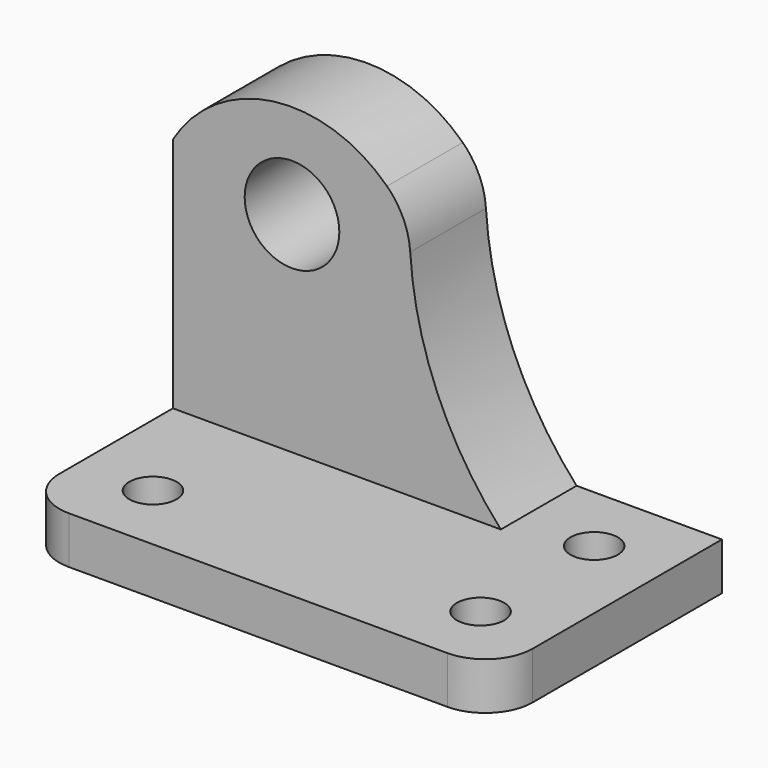
from build123d import *

# Parameters (mm, degrees)
F0_W      = 127
F0_H      = 76.2
F1_DEPTH  = 12.7
F2_R      = 12.7
F3_R      = 12.7
F4_W      = 63.5
F4_H      = 25.4
F5_DEPTH  = 63.5
F7_DEPTH  = 25.4
F8_DEPTH  = 25.4
F9_R      = 20.636463447
F11_DEPTH = 25.4010001
F12_DEPTH = 25.4010001
F13_R     = 0.2708197303
F14_R     = 6.35
F15_DEPTH = 12.7010001
F16_DEPTH = 12.7010001
F17_DEPTH = 12.7010001


with BuildPart() as f1:
    # F0 (on Top) → F1 (new body)
    with BuildSketch(Plane.XY):
        with Locations((1.7509019642, 4.0471330285)):
            Rectangle(F0_W, F0_H)
    extrude(amount=F1_DEPTH)

    # F2
    f2_edges = [f1.edges().sort_by_distance(p)[0] for p in [
        (-61.749098, -34.052867, 6.35),
    ]]
    fillet(f2_edges, radius=F2_R)

    # F3
    f3_edges = [f1.edges().sort_by_distance(p)[0] for p in [
        (65.250902, -34.052867, 6.35),
    ]]
    fillet(f3_edges, radius=F3_R)

    # F4 (on face) → F5 (join)
    with BuildSketch(Plane.XY.offset(12.7)):
        with Locations((-29.9990980358, 29.4471330285)):
            Rectangle(F4_W, F4_H)
    extrude(amount=F5_DEPTH)

    # F6 (on face) → F7 (join)
    with BuildSketch(Plane.XZ.offset(-16.7471330285)):
        with BuildLine():
            Line((-61.7490980358, 76.2), (1.7509019642, 76.2))
            ThreePointArc((1.7509019642, 76.2), (-29.9990980358, 94.2832173296), (-61.7490980358, 76.2))
        make_face()
    extrude(amount=-F7_DEPTH)

    # F6 (on face) → F8 (join)
    with BuildSketch(Plane.XZ.offset(-16.7471330285)):
        with BuildLine():
            ThreePointArc((26.2496182163, 12.7), (8.0879587681, 42.1689953939), (1.7509019642, 76.2))
            Line((1.7509019642, 76.2), (1.7509019642, 12.7))
            Line((1.7509019642, 12.7), (26.2496182163, 12.7))
        make_face()
    extrude(amount=-F8_DEPTH)

    # F9
    f9_edges = [f1.edges().sort_by_distance(p)[0] for p in [
        (1.750902, 29.447133, 76.2),
    ]]
    fillet(f9_edges, radius=F9_R)

    # F10 (on face) → F11 (cut, through all)
    with BuildSketch(Plane.XZ.offset(-16.7471330285)):
        with BuildLine():
            ThreePointArc((-40.1649535069, 76.2), (-33.624820371, 56.7753634634), (-17.0858500555, 68.8812424863))
            ThreePointArc((-17.0858500555, 68.8812424863), (-17.6799710326, 72.7202128018), (-19.4067466041, 76.2))
            Line((-19.4067466041, 76.2), (-40.1649535069, 76.2))
        make_face()
    extrude(amount=-F11_DEPTH, mode=Mode.SUBTRACT)

    # F10 (on face) → F12 (cut, through all)
    with BuildSketch(Plane.XZ.offset(-16.7471330285)):
        with BuildLine():
            Line((-40.1649535069, 76.2), (-19.4067466041, 76.2))
            ThreePointArc((-19.4067466041, 76.2), (-29.7858500555, 81.5812424863), (-40.1649535069, 76.2))
        make_face()
    extrude(amount=-F12_DEPTH, mode=Mode.SUBTRACT)

    # F13
    f13_edges = [f1.edges().sort_by_distance(p)[0] for p in [
        (-61.749098, 29.447133, 76.2),
    ]]
    fillet(f13_edges, radius=F13_R)

    # F14 (on face) → F15 (cut, through all)
    with BuildSketch(Plane.XY.offset(12.7)):
        with Locations((-41.6999144272, -15.0028669715)):
            Circle(F14_R)
    extrude(amount=-F15_DEPTH, mode=Mode.SUBTRACT)

    # F14 (on face) → F16 (cut, through all)
    with BuildSketch(Plane.XY.offset(12.7)):
        with Locations((46.2009019642, -15.0028669715)):
            Circle(F14_R)
    extrude(amount=-F16_DEPTH, mode=Mode.SUBTRACT)

    # F14 (on face) → F17 (cut, through all)
    with BuildSketch(Plane.XY.offset(12.7)):
        with Locations((46.2009019642, 23.1024639082)):
            Circle(F14_R)
    extrude(amount=-F17_DEPTH, mode=Mode.SUBTRACT)


solid = f1.part
